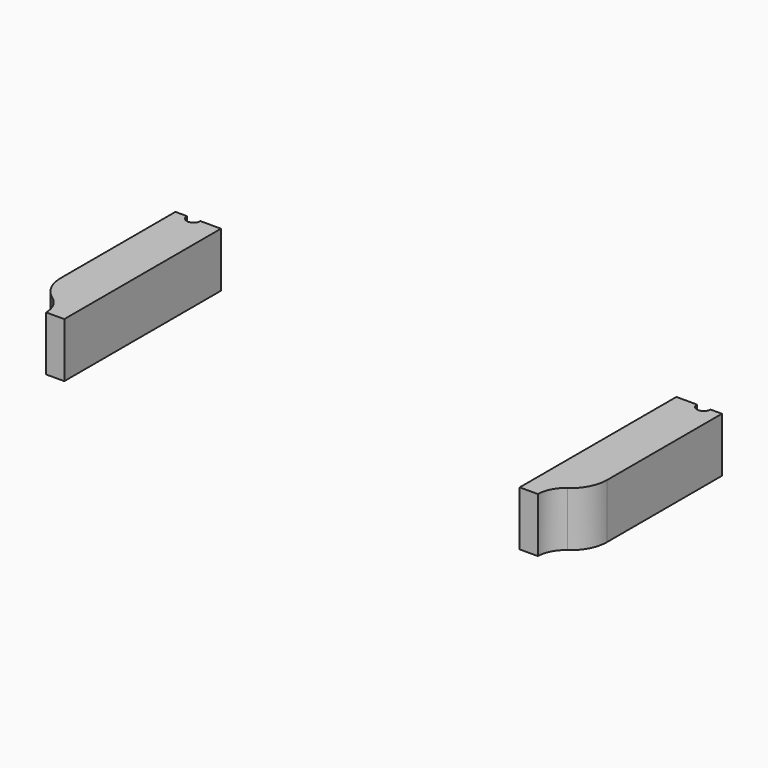
from build123d import *

# Parameters (mm, degrees)
CYLINDER1545_R               = 6
CYLINDER1545_DEPTH           = 16
CYLINDER1542_R               = 6
CYLINDER1542_DEPTH           = 16
CYLINDER1543_R               = 1.5
CYLINDER1543_DEPTH           = 50
CYLINDER1543_PLACEMENT_ANGLE = 45
CYLINDER1513_R               = 1.5
CYLINDER1513_DEPTH           = 50
CYLINDER1503_R               = 1.5
CYLINDER1503_DEPTH           = 50
CYLINDER1503_PLACEMENT_ANGLE = 135
CYLINDER1509_R               = 1.5
CYLINDER1509_DEPTH           = 50
CYLINDER1544_R               = 1.5
CYLINDER1544_DEPTH           = 50
CYLINDER1544_PLACEMENT_ANGLE = 225
CYLINDER1501_R               = 1.5
CYLINDER1501_DEPTH           = 50
CYLINDER1506_R               = 1.5
CYLINDER1506_DEPTH           = 50
CYLINDER1506_PLACEMENT_ANGLE = 45
CYLINDER1504_R               = 1.5
CYLINDER1504_DEPTH           = 50
BOX538_W                     = 10
BOX538_H                     = 43
BOX538_DEPTH                 = 12
BOX523_W                     = 10
BOX523_H                     = 43
BOX523_DEPTH                 = 12
FILLET023_R                  = 8


with BuildPart() as obj1:
    # Cylinder1545 → Cylinder1545 (new body)
    with BuildSketch(Plane(origin=(-60, -43, 10), x_dir=(1, 0, 0), z_dir=(0, 0, 1))):
        Circle(CYLINDER1545_R)
    extrude(amount=CYLINDER1545_DEPTH)


with BuildPart() as compound909:
    # Cylinder1542 → Cylinder1542 (new body)
    with BuildSketch(Plane(origin=(60, -43, 10), x_dir=(1, 0, 0), z_dir=(0, 0, 1))):
        Circle(CYLINDER1542_R)
    extrude(amount=CYLINDER1542_DEPTH)

    # Compound909: union obj1
    add(obj1.part)


with BuildPart() as obj2:
    # Cylinder1543 → Cylinder1543 (new body)
    with BuildSketch(Plane.XY):
        Circle(CYLINDER1543_R)
    extrude(amount=CYLINDER1543_DEPTH)


with BuildPart() as obj2_1:
    # Cylinder1543 placement: moved
    add(obj2.part.moved(Location((39.59798, -39.59798, 2))).rotate(Axis((39.59798, -39.59798, 2), (0, 0, 1)), CYLINDER1543_PLACEMENT_ANGLE))


with BuildPart() as obj3:
    # Cylinder1513 → Cylinder1513 (new body)
    with BuildSketch(Plane(origin=(56, 0, 2), x_dir=(0, 1, 0), z_dir=(0, 0, 1))):
        Circle(CYLINDER1513_R)
    extrude(amount=CYLINDER1513_DEPTH)


with BuildPart() as obj4:
    # Cylinder1503 → Cylinder1503 (new body)
    with BuildSketch(Plane.XY):
        Circle(CYLINDER1503_R)
    extrude(amount=CYLINDER1503_DEPTH)


with BuildPart() as obj4_1:
    # Cylinder1503 placement: moved
    add(obj4.part.moved(Location((39.59798, 39.59798, 2))).rotate(Axis((39.59798, 39.59798, 2), (0, 0, 1)), CYLINDER1503_PLACEMENT_ANGLE))


with BuildPart() as obj5:
    # Cylinder1509 → Cylinder1509 (new body)
    with BuildSketch(Plane(origin=(0, 56, 2), x_dir=(-1, 0, 0), z_dir=(0, 0, 1))):
        Circle(CYLINDER1509_R)
    extrude(amount=CYLINDER1509_DEPTH)


with BuildPart() as obj6:
    # Cylinder1544 → Cylinder1544 (new body)
    with BuildSketch(Plane.XY):
        Circle(CYLINDER1544_R)
    extrude(amount=CYLINDER1544_DEPTH)


with BuildPart() as obj6_1:
    # Cylinder1544 placement: moved
    add(obj6.part.moved(Location((-39.59798, 39.59798, 2))).rotate(Axis((-39.59798, 39.59798, 2), (0, 0, 1)), CYLINDER1544_PLACEMENT_ANGLE))


with BuildPart() as obj7:
    # Cylinder1501 → Cylinder1501 (new body)
    with BuildSketch(Plane(origin=(-56, 0, 2), x_dir=(0, -1, 0), z_dir=(0, 0, 1))):
        Circle(CYLINDER1501_R)
    extrude(amount=CYLINDER1501_DEPTH)


with BuildPart() as obj8:
    # Cylinder1506 → Cylinder1506 (new body)
    with BuildSketch(Plane.XY):
        Circle(CYLINDER1506_R)
    extrude(amount=CYLINDER1506_DEPTH)


with BuildPart() as obj8_1:
    # Cylinder1506 placement: moved
    add(obj8.part.moved(Location((-39.59798, -39.59798, 2))).rotate(Axis((-39.59798, -39.59798, 2), (0, 0, -1)), CYLINDER1506_PLACEMENT_ANGLE))


with BuildPart() as compound910:
    # Cylinder1504 → Cylinder1504 (new body)
    with BuildSketch(Plane(origin=(0, -56, 2), x_dir=(1, 0, 0), z_dir=(0, 0, 1))):
        Circle(CYLINDER1504_R)
    extrude(amount=CYLINDER1504_DEPTH)

    # Compound910: union obj2, obj3, obj4, obj5, obj6, obj7, obj8
    add(obj2_1.part)
    add(obj3.part)
    add(obj4_1.part)
    add(obj5.part)
    add(obj6_1.part)
    add(obj7.part)
    add(obj8_1.part)


with BuildPart() as krychle538:
    # Box538 → Box538 (new body)
    with BuildSketch(Plane(origin=(50, -43, 10), x_dir=(1, 0, 0), z_dir=(0, 0, 1))):
        with Locations((5, 21.5)):
            Rectangle(BOX538_W, BOX538_H)
    extrude(amount=BOX538_DEPTH)


with BuildPart() as fillet023:
    # Box523 → Box523 (new body)
    with BuildSketch(Plane(origin=(-60, -43, 10), x_dir=(1, 0, 0), z_dir=(0, 0, 1))):
        with Locations((5, 21.5)):
            Rectangle(BOX523_W, BOX523_H)
    extrude(amount=BOX523_DEPTH)

    # Compound918: union Krychle538
    add(krychle538.part)

    # Cut552: cut Compound910
    add(compound910.part, mode=Mode.SUBTRACT)

    # Cut557: cut Compound909
    add(compound909.part, mode=Mode.SUBTRACT)

    # Fillet023
    fillet023_edges = [fillet023.edges().sort_by_distance(p)[0] for p in [
        (-60, -37, 16),
        (60, -37, 16),
    ]]
    fillet(fillet023_edges, radius=FILLET023_R)


with BuildPart() as fillet023_1:
    # Fillet023 placement: moved
    add(fillet023.part.moved(Location((0, 0, -4))))


solid = fillet023_1.part
